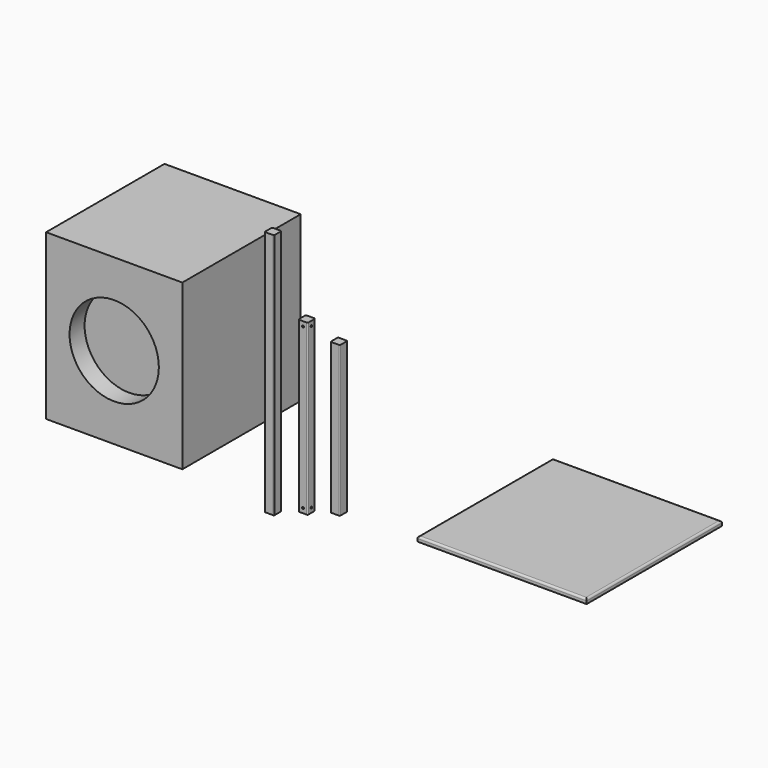
from build123d import *

# Parameters (mm, degrees)
F0_W      = 368.3
F0_H      = 400.05
F1_DEPTH  = 444.5
F2_R      = 120.65
F3_DEPTH  = 50.8
F5_DEPTH  = 666.75
F7_DEPTH  = 457.2
F9_DEPTH  = 406.4
F10_W     = 457.2
F10_H     = 457.2
F11_DEPTH = 12.7
F12_R     = 5.08
F13_R     = 2.54
F14_DEPTH = 25.4
F15_R     = 2.54
F16_DEPTH = 25.4


with BuildPart() as f1:
    # F0 (on Top) → F1 (new body)
    with BuildSketch(Plane.XY):
        with Locations((-341.12138, 122.32554)):
            Rectangle(F0_W, F0_H)
    extrude(amount=F1_DEPTH)

    # F2 (on face) → F3 (cut)
    with BuildSketch(Plane.XZ.offset(77.69946)):
        with Locations((-341.12138, 222.25)):
            Circle(F2_R)
    extrude(amount=-F3_DEPTH, mode=Mode.SUBTRACT)


with BuildPart() as f5:
    # F4 (on Top) → F5 (new body)
    with BuildSketch(Plane.XY):
        with BuildLine():
            Line((103.234016, -121.848408), (123.554016, -121.848408))
            ThreePointArc((123.554016, -121.848408), (125.350067, -121.10446), (126.094016, -119.308408))
            Line((126.094016, -119.308408), (126.094016, -98.988408))
            ThreePointArc((126.094016, -98.988408), (125.350067, -97.192357), (123.554016, -96.448408))
            Line((123.554016, -96.448408), (103.234016, -96.448408))
            ThreePointArc((103.234016, -96.448408), (101.437964, -97.192357), (100.694016, -98.988408))
            Line((100.694016, -98.988408), (100.694016, -119.308408))
            ThreePointArc((100.694016, -119.308408), (101.437964, -121.10446), (103.234016, -121.848408))
        make_face()
    extrude(amount=F5_DEPTH)


with BuildPart() as f7:
    # F6 (on Top) → F7 (new body)
    with BuildSketch(Plane.XY):
        with BuildLine():
            Line((157.260098, -75.488299), (177.580098, -75.488299))
            ThreePointArc((177.580098, -75.488299), (179.376149, -74.74435), (180.120098, -72.948299))
            Line((180.120098, -72.948299), (180.120098, -52.628299))
            ThreePointArc((180.120098, -52.628299), (179.376149, -50.832248), (177.580098, -50.088299))
            Line((177.580098, -50.088299), (157.260098, -50.088299))
            ThreePointArc((157.260098, -50.088299), (155.464047, -50.832248), (154.720098, -52.628299))
            Line((154.720098, -52.628299), (154.720098, -72.948299))
            ThreePointArc((154.720098, -72.948299), (155.464047, -74.74435), (157.260098, -75.488299))
        make_face()
    extrude(amount=F7_DEPTH)

    # F13 (on face) → F14 (cut)
    with BuildSketch(Plane.XZ.offset(75.488299)):
        with Locations((167.420098, 12.7)):
            Circle(F13_R)
        with Locations((167.420098, 444.5)):
            Circle(F13_R)
    extrude(amount=-F14_DEPTH, mode=Mode.SUBTRACT)

    # F15 (on face) → F16 (cut)
    with BuildSketch(Plane.YZ.offset(180.120098)):
        with Locations((-62.788299, 12.7)):
            Circle(F15_R)
        with Locations((-62.788299, 444.5)):
            Circle(F15_R)
    extrude(amount=-F16_DEPTH, mode=Mode.SUBTRACT)


with BuildPart() as f9:
    # F8 (on Top) → F9 (new body)
    with BuildSketch(Plane.XY):
        with BuildLine():
            Line((213.078841, -36.506822), (233.398841, -36.506822))
            ThreePointArc((233.398841, -36.506822), (235.194892, -35.762873), (235.938841, -33.966822))
            Line((235.938841, -33.966822), (235.938841, -13.646822))
            ThreePointArc((235.938841, -13.646822), (235.194892, -11.85077), (233.398841, -11.106822))
            Line((233.398841, -11.106822), (213.078841, -11.106822))
            ThreePointArc((213.078841, -11.106822), (211.282789, -11.85077), (210.538841, -13.646822))
            Line((210.538841, -13.646822), (210.538841, -33.966822))
            ThreePointArc((210.538841, -33.966822), (211.282789, -35.762873), (213.078841, -36.506822))
        make_face()
    extrude(amount=F9_DEPTH)


with BuildPart() as f11:
    # F10 (on Top) → F11 (new body)
    with BuildSketch(Plane.XY):
        with Locations((665.759002, 202.81735)):
            Rectangle(F10_W, F10_H)
    extrude(amount=F11_DEPTH)

    # F12
    f12_edges = [f11.edges().sort_by_distance(p)[0] for p in [
        (437.159002, 202.81735, 12.7),
        (665.759002, -25.78265, 12.7),
        (894.359002, 202.81735, 12.7),
        (665.759002, 431.41735, 12.7),
    ]]
    fillet(f12_edges, radius=F12_R)


solid = Compound([f1.part, f5.part, f7.part, f9.part, f11.part])
